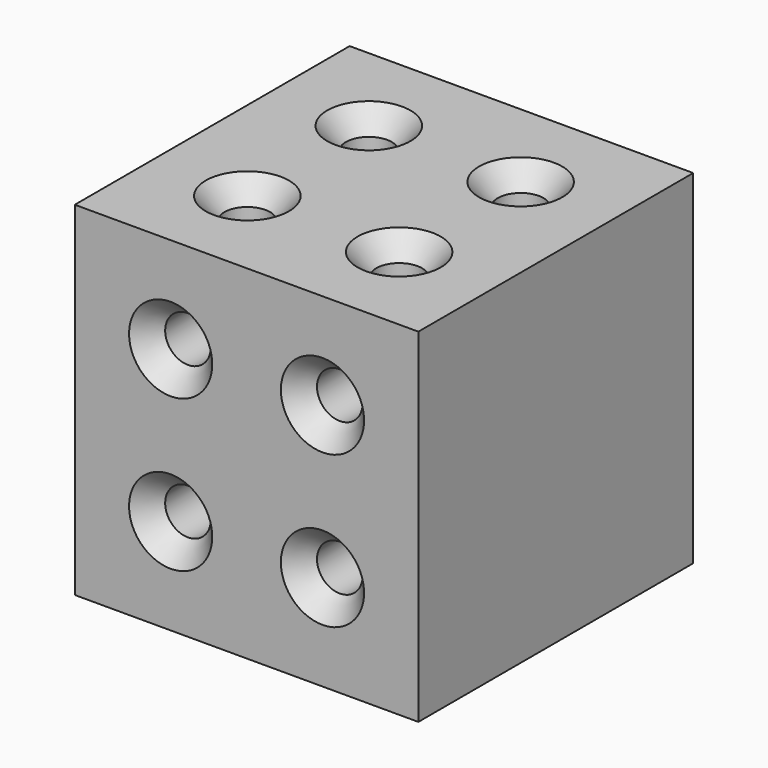
from build123d import *

# Parameters (mm, degrees)
F0_W           = 203.2
F0_H           = 203.2
F1_DEPTH       = 101.6
F3_D           = 26.9748
F3_CSINK_D     = 49.2252
F3_CSINK_ANGLE = 82
F5_D           = 26.9748
F5_CSINK_D     = 49.2252
F5_CSINK_ANGLE = 82


with BuildPart() as f1:
    # F0 (on Front) → F1 (new body, symmetric)
    with BuildSketch(Plane.XZ):
        with Locations((-101.6, 101.6)):
            Rectangle(F0_W, F0_H)
    extrude(amount=F1_DEPTH, both=True)

    # F3 (through all)
    with Locations(Plane.XZ.offset(101.6)):
        with Locations((-56.698719, 146.501281), (-146.501281, 146.501281), (-146.501281, 56.698719), (-56.698719, 56.698719)):
            CounterSinkHole(F3_D / 2, F3_CSINK_D / 2, counter_sink_angle=F3_CSINK_ANGLE)

    # F5 (through all)
    with Locations(Plane.XY.offset(203.2)):
        with Locations((-56.698719, 44.901281), (-146.501281, 44.901281), (-146.501281, -44.901281), (-56.698719, -44.901281)):
            CounterSinkHole(F5_D / 2, F5_CSINK_D / 2, counter_sink_angle=F5_CSINK_ANGLE)


solid = f1.part
